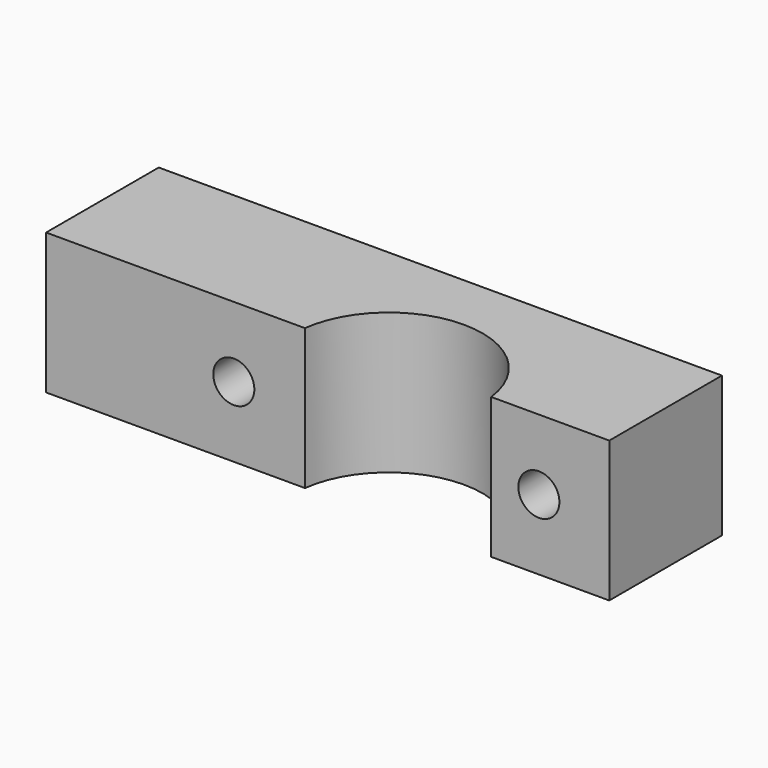
from build123d import *

# Parameters (mm, degrees)
F1_DEPTH = 12
F2_R     = 1.75
F3_DEPTH = 12
F4_DEPTH = 4


with BuildPart() as f1:
    # F0 (on Top) → F1 (new body)
    with BuildSketch(Plane.XY):
        with BuildLine():
            Line((0, 12), (0, 0))
            Line((0, 0), (22.062746, 0))
            ThreePointArc((22.062746, 0), (30, 7), (37.937254, 0))
            Line((37.937254, 0), (48, 0))
            Line((48, 0), (48, 12))
            Line((48, 12), (0, 12))
        make_face()
    extrude(amount=F1_DEPTH)

    # F2 (on face) → F3 (cut, through all)
    with BuildSketch(Plane(origin=(0, 12, 0), x_dir=(-1, 0, 0), z_dir=(0, 1, 0))):
        with Locations((-42, 6)):
            Circle(F2_R)
        with Locations((-16, 6)):
            Circle(F2_R)
    extrude(amount=-F3_DEPTH, mode=Mode.SUBTRACT)

    # F2 (on face) → F4 (cut)
    with BuildSketch(Plane(origin=(0, 12, 0), x_dir=(-1, 0, 0), z_dir=(0, 1, 0))):
        Polygon((-39, 4.267949), (-39, 7.732051), (-42, 9.464102), (-45, 7.732051), (-45, 4.267949), (-42, 2.535898), align=None)
        with Locations((-42, 6)):
            Circle(F2_R, mode=Mode.SUBTRACT)
        Polygon((-13, 7.732051), (-16, 9.464102), (-19, 7.732051), (-19, 4.267949), (-16, 2.535898), (-13, 4.267949), align=None)
        with Locations((-16, 6)):
            Circle(F2_R, mode=Mode.SUBTRACT)
    extrude(amount=-F4_DEPTH, mode=Mode.SUBTRACT)


solid = f1.part
